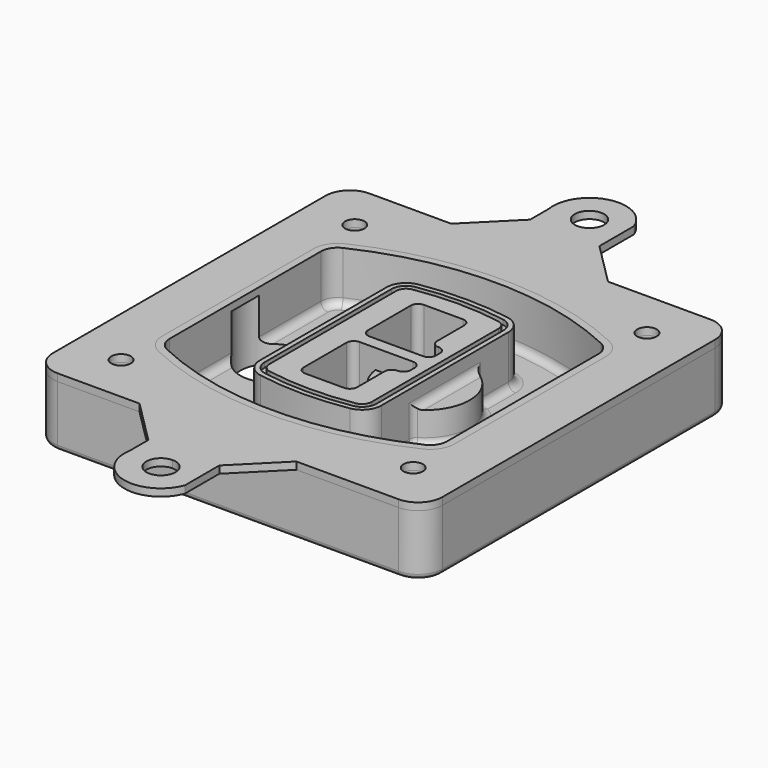
from build123d import *

# Parameters (mm, degrees)
F0_R      = 4
F1_DEPTH  = 25
F2_DEPTH  = 3
F3_DEPTH  = 18
F5_DEPTH  = 21
F6_DEPTH  = 2
F8_DEPTH  = 20
F9_DEPTH  = 16
F10_DEPTH = 25
F7_R      = 6
F7_R_2    = 4
F11_DEPTH = 6
F13_DEPTH = 9
F14_R     = 3
F15_R     = 2
F16_R     = 4
F17_DEPTH = 3


with BuildPart() as f1:
    # F0 (on Top) → F1 (new body)
    with BuildSketch(Plane.XY):
        with BuildLine():
            ThreePointArc((-80, -70), (-77.0710678119, -77.0710678119), (-70, -80))
            Line((-70, -80), (70, -80))
            ThreePointArc((70, -80), (77.0710678119, -77.0710678119), (80, -70))
            Line((80, -70), (80, 70))
            ThreePointArc((80, 70), (77.0710678119, 77.0710678119), (70, 80))
            Line((70, 80), (-70, 80))
            ThreePointArc((-70, 80), (-77.0710678119, 77.0710678119), (-80, 70))
            Line((-80, 70), (-80, -70))
        make_face()
        with Locations((-60, -60)):
            Circle(F0_R, mode=Mode.SUBTRACT)
        with Locations((60, -60)):
            Circle(F0_R, mode=Mode.SUBTRACT)
        with Locations((-60, 60)):
            Circle(F0_R, mode=Mode.SUBTRACT)
        with BuildLine():
            ThreePointArc((-64, 38.8308515907), (-61.8195654598, 46.3340424013), (-55.9574468085, 51.5000594398))
            ThreePointArc((-55.9574468085, 51.5000594398), (0, 64), (55.9574468085, 51.5000594398))
            ThreePointArc((55.9574468085, 51.5000594398), (61.8195654598, 46.3340424013), (64, 38.8308515907))
            Line((64, 38.8308515907), (64, -38.8308515907))
            ThreePointArc((64, -38.8308515907), (61.8195654598, -46.3340424013), (55.9574468085, -51.5000594398))
            ThreePointArc((55.9574468085, -51.5000594398), (0, -64), (-55.9574468085, -51.5000594398))
            ThreePointArc((-55.9574468085, -51.5000594398), (-61.8195654598, -46.3340424013), (-64, -38.8308515907))
            Line((-64, -38.8308515907), (-64, 38.8308515907))
        make_face(mode=Mode.SUBTRACT)
        with Locations((60, 60)):
            Circle(F0_R, mode=Mode.SUBTRACT)
        with BuildLine():
            ThreePointArc((55.9574468085, 51.5000594398), (0, 64), (-55.9574468085, 51.5000594398))
            ThreePointArc((-55.9574468085, 51.5000594398), (-61.8195654598, 46.3340424013), (-64, 38.8308515907))
            Line((-64, 38.8308515907), (-64, -38.8308515907))
            ThreePointArc((-64, -38.8308515907), (-61.8195654598, -46.3340424013), (-55.9574468085, -51.5000594398))
            ThreePointArc((-55.9574468085, -51.5000594398), (0, -64), (55.9574468085, -51.5000594398))
            ThreePointArc((55.9574468085, -51.5000594398), (61.8195654598, -46.3340424013), (64, -38.8308515907))
            Line((64, -38.8308515907), (64, 38.8308515907))
            ThreePointArc((64, 38.8308515907), (61.8195654598, 46.3340424013), (55.9574468085, 51.5000594398))
        make_face()
        with BuildLine():
            Line((-60, -38.8308515907), (-60, 38.8308515907))
            ThreePointArc((-60, 38.8308515907), (-58.442546757, 44.1902735983), (-54.2553191489, 47.8802857686))
            ThreePointArc((-54.2553191489, 47.8802857686), (0, 60), (54.2553191489, 47.8802857686))
            ThreePointArc((54.2553191489, 47.8802857686), (58.442546757, 44.1902735983), (60, 38.8308515907))
            Line((60, 38.8308515907), (60, -38.8308515907))
            ThreePointArc((60, -38.8308515907), (58.442546757, -44.1902735983), (54.2553191489, -47.8802857686))
            ThreePointArc((54.2553191489, -47.8802857686), (0, -60), (-54.2553191489, -47.8802857686))
            ThreePointArc((-54.2553191489, -47.8802857686), (-58.442546757, -44.1902735983), (-60, -38.8308515907))
        make_face(mode=Mode.SUBTRACT)
        with BuildLine():
            ThreePointArc((-54.2553191489, 47.8802857686), (-58.442546757, 44.1902735983), (-60, 38.8308515907))
            Line((-60, 38.8308515907), (-60, -38.8308515907))
            ThreePointArc((-60, -38.8308515907), (-58.442546757, -44.1902735983), (-54.2553191489, -47.8802857686))
            ThreePointArc((-54.2553191489, -47.8802857686), (0, -60), (54.2553191489, -47.8802857686))
            ThreePointArc((54.2553191489, -47.8802857686), (58.442546757, -44.1902735983), (60, -38.8308515907))
            Line((60, -38.8308515907), (60, 38.8308515907))
            ThreePointArc((60, 38.8308515907), (58.442546757, 44.1902735983), (54.2553191489, 47.8802857686))
            ThreePointArc((54.2553191489, 47.8802857686), (0, 60), (-54.2553191489, 47.8802857686))
        make_face()
        with BuildLine():
            ThreePointArc((52.9787234043, 45.1654555152), (55.9097827299, 42.582446996), (57, 38.8308515907))
            Line((57, 38.8308515907), (57, -38.8308515907))
            ThreePointArc((57, -38.8308515907), (55.9097827299, -42.582446996), (52.9787234043, -45.1654555152))
            ThreePointArc((52.9787234043, -45.1654555152), (0, -57), (-52.9787234043, -45.1654555152))
            ThreePointArc((-52.9787234043, -45.1654555152), (-55.9097827299, -42.582446996), (-57, -38.8308515907))
            Line((-57, -38.8308515907), (-57, 38.8308515907))
            ThreePointArc((-57, 38.8308515907), (-55.9097827299, 42.582446996), (-52.9787234043, 45.1654555152))
            ThreePointArc((-52.9787234043, 45.1654555152), (0, 57), (52.9787234043, 45.1654555152))
        make_face(mode=Mode.SUBTRACT)
        with BuildLine():
            Line((57, -38.8308515907), (57, 38.8308515907))
            ThreePointArc((57, 38.8308515907), (55.9097827299, 42.582446996), (52.9787234043, 45.1654555152))
            ThreePointArc((52.9787234043, 45.1654555152), (0, 57), (-52.9787234043, 45.1654555152))
            ThreePointArc((-52.9787234043, 45.1654555152), (-55.9097827299, 42.582446996), (-57, 38.8308515907))
            Line((-57, 38.8308515907), (-57, -38.8308515907))
            ThreePointArc((-57, -38.8308515907), (-55.9097827299, -42.582446996), (-52.9787234043, -45.1654555152))
            ThreePointArc((-52.9787234043, -45.1654555152), (0, -57), (52.9787234043, -45.1654555152))
            ThreePointArc((52.9787234043, -45.1654555152), (55.9097827299, -42.582446996), (57, -38.8308515907))
        make_face()
    extrude(amount=-F1_DEPTH)

    # F0 (on Top) → F2 (join)
    with BuildSketch(Plane.XY):
        with BuildLine():
            ThreePointArc((-54.2553191489, 47.8802857686), (-58.442546757, 44.1902735983), (-60, 38.8308515907))
            Line((-60, 38.8308515907), (-60, -38.8308515907))
            ThreePointArc((-60, -38.8308515907), (-58.442546757, -44.1902735983), (-54.2553191489, -47.8802857686))
            ThreePointArc((-54.2553191489, -47.8802857686), (0, -60), (54.2553191489, -47.8802857686))
            ThreePointArc((54.2553191489, -47.8802857686), (58.442546757, -44.1902735983), (60, -38.8308515907))
            Line((60, -38.8308515907), (60, 38.8308515907))
            ThreePointArc((60, 38.8308515907), (58.442546757, 44.1902735983), (54.2553191489, 47.8802857686))
            ThreePointArc((54.2553191489, 47.8802857686), (0, 60), (-54.2553191489, 47.8802857686))
        make_face()
        with BuildLine():
            ThreePointArc((52.9787234043, 45.1654555152), (55.9097827299, 42.582446996), (57, 38.8308515907))
            Line((57, 38.8308515907), (57, -38.8308515907))
            ThreePointArc((57, -38.8308515907), (55.9097827299, -42.582446996), (52.9787234043, -45.1654555152))
            ThreePointArc((52.9787234043, -45.1654555152), (0, -57), (-52.9787234043, -45.1654555152))
            ThreePointArc((-52.9787234043, -45.1654555152), (-55.9097827299, -42.582446996), (-57, -38.8308515907))
            Line((-57, -38.8308515907), (-57, 38.8308515907))
            ThreePointArc((-57, 38.8308515907), (-55.9097827299, 42.582446996), (-52.9787234043, 45.1654555152))
            ThreePointArc((-52.9787234043, 45.1654555152), (0, 57), (52.9787234043, 45.1654555152))
        make_face(mode=Mode.SUBTRACT)
    extrude(amount=F2_DEPTH)

    # F0 (on Top) → F3 (cut)
    with BuildSketch(Plane.XY):
        with BuildLine():
            Line((57, -38.8308515907), (57, 38.8308515907))
            ThreePointArc((57, 38.8308515907), (55.9097827299, 42.582446996), (52.9787234043, 45.1654555152))
            ThreePointArc((52.9787234043, 45.1654555152), (0, 57), (-52.9787234043, 45.1654555152))
            ThreePointArc((-52.9787234043, 45.1654555152), (-55.9097827299, 42.582446996), (-57, 38.8308515907))
            Line((-57, 38.8308515907), (-57, -38.8308515907))
            ThreePointArc((-57, -38.8308515907), (-55.9097827299, -42.582446996), (-52.9787234043, -45.1654555152))
            ThreePointArc((-52.9787234043, -45.1654555152), (0, -57), (52.9787234043, -45.1654555152))
            ThreePointArc((52.9787234043, -45.1654555152), (55.9097827299, -42.582446996), (57, -38.8308515907))
        make_face()
    extrude(amount=-F3_DEPTH, mode=Mode.SUBTRACT)

    # F4 (on face) → F5 (join, through all)
    with BuildSketch(Plane.XY.offset(3)):
        with BuildLine():
            ThreePointArc((-25, -32.5662280692), (-23.1122504785, -37.7276614059), (-18.3399014778, -40.4532214146))
            ThreePointArc((-18.3399014778, -40.4532214146), (0, -42), (18.3399014778, -40.4532214146))
            ThreePointArc((18.3399014778, -40.4532214146), (23.1122504785, -37.7276614059), (25, -32.5662280692))
            Line((25, -32.5662280692), (25, 32.5662280692))
            ThreePointArc((25, 32.5662280692), (23.1122504785, 37.7276614059), (18.3399014778, 40.4532214146))
            ThreePointArc((18.3399014778, 40.4532214146), (0, 42), (-18.3399014778, 40.4532214146))
            ThreePointArc((-18.3399014778, 40.4532214146), (-23.1122504785, 37.7276614059), (-25, 32.5662280692))
            Line((-25, 32.5662280692), (-25, -32.5662280692))
        make_face()
        with BuildLine():
            ThreePointArc((18.0049261084, 38.4814730782), (21.5841878588, 36.4373030717), (23, 32.5662280692))
            Line((23, 32.5662280692), (23, -32.5662280692))
            ThreePointArc((23, -32.5662280692), (21.5841878588, -36.4373030717), (18.0049261084, -38.4814730782))
            ThreePointArc((18.0049261084, -38.4814730782), (0, -40), (-18.0049261084, -38.4814730782))
            ThreePointArc((-18.0049261084, -38.4814730782), (-21.5841878588, -36.4373030717), (-23, -32.5662280692))
            Line((-23, -32.5662280692), (-23, 32.5662280692))
            ThreePointArc((-23, 32.5662280692), (-21.5841878588, 36.4373030717), (-18.0049261084, 38.4814730782))
            ThreePointArc((-18.0049261084, 38.4814730782), (0, 40), (18.0049261084, 38.4814730782))
        make_face(mode=Mode.SUBTRACT)
        with BuildLine():
            Line((23, -32.5662280692), (23, 32.5662280692))
            ThreePointArc((23, 32.5662280692), (21.5841878588, 36.4373030717), (18.0049261084, 38.4814730782))
            ThreePointArc((18.0049261084, 38.4814730782), (0, 40), (-18.0049261084, 38.4814730782))
            ThreePointArc((-18.0049261084, 38.4814730782), (-21.5841878588, 36.4373030717), (-23, 32.5662280692))
            Line((-23, 32.5662280692), (-23, -32.5662280692))
            ThreePointArc((-23, -32.5662280692), (-21.5841878588, -36.4373030717), (-18.0049261084, -38.4814730782))
            ThreePointArc((-18.0049261084, -38.4814730782), (0, -40), (18.0049261084, -38.4814730782))
            ThreePointArc((18.0049261084, -38.4814730782), (21.5841878588, -36.4373030717), (23, -32.5662280692))
        make_face()
        with BuildLine():
            ThreePointArc((17.6699507389, 36.5097247419), (20.0561252392, 35.1469447375), (21, 32.5662280692))
            Line((21, 32.5662280692), (21, -32.5662280692))
            ThreePointArc((21, -32.5662280692), (20.0561252392, -35.1469447375), (17.6699507389, -36.5097247419))
            ThreePointArc((17.6699507389, -36.5097247419), (0, -38), (-17.6699507389, -36.5097247419))
            ThreePointArc((-17.6699507389, -36.5097247419), (-20.0561252392, -35.1469447375), (-21, -32.5662280692))
            Line((-21, -32.5662280692), (-21, 32.5662280692))
            ThreePointArc((-21, 32.5662280692), (-20.0561252392, 35.1469447375), (-17.6699507389, 36.5097247419))
            ThreePointArc((-17.6699507389, 36.5097247419), (0, 38), (17.6699507389, 36.5097247419))
        make_face(mode=Mode.SUBTRACT)
        with BuildLine():
            Line((21, -32.5662280692), (21, 32.5662280692))
            ThreePointArc((21, 32.5662280692), (20.0561252392, 35.1469447375), (17.6699507389, 36.5097247419))
            ThreePointArc((17.6699507389, 36.5097247419), (0, 38), (-17.6699507389, 36.5097247419))
            ThreePointArc((-17.6699507389, 36.5097247419), (-20.0561252392, 35.1469447375), (-21, 32.5662280692))
            Line((-21, 32.5662280692), (-21, -32.5662280692))
            ThreePointArc((-21, -32.5662280692), (-20.0561252392, -35.1469447375), (-17.6699507389, -36.5097247419))
            ThreePointArc((-17.6699507389, -36.5097247419), (0, -38), (17.6699507389, -36.5097247419))
            ThreePointArc((17.6699507389, -36.5097247419), (20.0561252392, -35.1469447375), (21, -32.5662280692))
        make_face()
        with BuildLine():
            Line((-8, -2.5), (14, -2.5))
            ThreePointArc((14, -2.5), (16.1213203436, -3.3786796564), (17, -5.5))
            Line((17, -5.5), (17, -7.5))
            ThreePointArc((17, -7.5), (16.1213203436, -9.6213203436), (14, -10.5))
            ThreePointArc((14, -10.5), (11.8786796564, -11.3786796564), (11, -13.5))
            Line((11, -13.5), (11, -27.5))
            ThreePointArc((11, -27.5), (10.1213203436, -29.6213203436), (8, -30.5))
            Line((8, -30.5), (-8, -30.5))
            ThreePointArc((-8, -30.5), (-10.1213203436, -29.6213203436), (-11, -27.5))
            Line((-11, -27.5), (-11, -5.5))
            ThreePointArc((-11, -5.5), (-10.1213203436, -3.3786796564), (-8, -2.5))
        make_face(mode=Mode.SUBTRACT)
        with BuildLine():
            ThreePointArc((-8, 2.5), (-10.1213203436, 3.3786796564), (-11, 5.5))
            Line((-11, 5.5), (-11, 27.5))
            ThreePointArc((-11, 27.5), (-10.1213203436, 29.6213203436), (-8, 30.5))
            Line((-8, 30.5), (8, 30.5))
            ThreePointArc((8, 30.5), (10.1213203436, 29.6213203436), (11, 27.5))
            Line((11, 27.5), (11, 13.5))
            ThreePointArc((11, 13.5), (11.8786796564, 11.3786796564), (14, 10.5))
            ThreePointArc((14, 10.5), (16.1213203436, 9.6213203436), (17, 7.5))
            Line((17, 7.5), (17, 5.5))
            ThreePointArc((17, 5.5), (16.1213203436, 3.3786796564), (14, 2.5))
            Line((14, 2.5), (-8, 2.5))
        make_face(mode=Mode.SUBTRACT)
    extrude(amount=-F5_DEPTH)

    # F4 (on face) → F6 (cut)
    with BuildSketch(Plane.XY.offset(3)):
        with BuildLine():
            Line((23, -32.5662280692), (23, 32.5662280692))
            ThreePointArc((23, 32.5662280692), (21.5841878588, 36.4373030717), (18.0049261084, 38.4814730782))
            ThreePointArc((18.0049261084, 38.4814730782), (0, 40), (-18.0049261084, 38.4814730782))
            ThreePointArc((-18.0049261084, 38.4814730782), (-21.5841878588, 36.4373030717), (-23, 32.5662280692))
            Line((-23, 32.5662280692), (-23, -32.5662280692))
            ThreePointArc((-23, -32.5662280692), (-21.5841878588, -36.4373030717), (-18.0049261084, -38.4814730782))
            ThreePointArc((-18.0049261084, -38.4814730782), (0, -40), (18.0049261084, -38.4814730782))
            ThreePointArc((18.0049261084, -38.4814730782), (21.5841878588, -36.4373030717), (23, -32.5662280692))
        make_face()
        with BuildLine():
            ThreePointArc((17.6699507389, 36.5097247419), (20.0561252392, 35.1469447375), (21, 32.5662280692))
            Line((21, 32.5662280692), (21, -32.5662280692))
            ThreePointArc((21, -32.5662280692), (20.0561252392, -35.1469447375), (17.6699507389, -36.5097247419))
            ThreePointArc((17.6699507389, -36.5097247419), (0, -38), (-17.6699507389, -36.5097247419))
            ThreePointArc((-17.6699507389, -36.5097247419), (-20.0561252392, -35.1469447375), (-21, -32.5662280692))
            Line((-21, -32.5662280692), (-21, 32.5662280692))
            ThreePointArc((-21, 32.5662280692), (-20.0561252392, 35.1469447375), (-17.6699507389, 36.5097247419))
            ThreePointArc((-17.6699507389, 36.5097247419), (0, 38), (17.6699507389, 36.5097247419))
        make_face(mode=Mode.SUBTRACT)
    extrude(amount=-F6_DEPTH, mode=Mode.SUBTRACT)

    # F7 (on face) → F8 (join)
    with BuildSketch(Plane(origin=(0, 0, -25), x_dir=(1, 0, 0), z_dir=(0, 0, -1))):
        with BuildLine():
            ThreePointArc((3.28842436, 0), (16.7567035675, 13.4682792075), (30.224982775, 0))
            Line((30.224982775, 0), (35.224982775, 0))
            ThreePointArc((35.224982775, 0), (16.7567035675, 18.4682792075), (-1.71157564, 0))
            Line((-1.71157564, 0), (3.28842436, 0))
        make_face()
        with BuildLine():
            Line((3.28842436, 0), (30.224982775, 0))
            ThreePointArc((30.224982775, 0), (16.7567035675, 13.4682792075), (3.28842436, 0))
        make_face()
        with BuildLine():
            ThreePointArc((3.28842436, 0), (16.7567035675, -13.4682792075), (30.224982775, 0))
            Line((30.224982775, 0), (3.28842436, 0))
        make_face()
        with BuildLine():
            Line((35.224982775, 0), (30.224982775, 0))
            ThreePointArc((30.224982775, 0), (16.7567035675, -13.4682792075), (3.28842436, 0))
            Line((3.28842436, 0), (-1.71157564, 0))
            ThreePointArc((-1.71157564, 0), (16.7567035675, -18.4682792075), (35.224982775, 0))
        make_face()
    extrude(amount=-F8_DEPTH)

    # F7 (on face) → F9 (cut)
    with BuildSketch(Plane(origin=(0, 0, -25), x_dir=(1, 0, 0), z_dir=(0, 0, -1))):
        with BuildLine():
            Line((3.28842436, 0), (30.224982775, 0))
            ThreePointArc((30.224982775, 0), (16.7567035675, 13.4682792075), (3.28842436, 0))
        make_face()
        with BuildLine():
            ThreePointArc((3.28842436, 0), (16.7567035675, -13.4682792075), (30.224982775, 0))
            Line((30.224982775, 0), (3.28842436, 0))
        make_face()
    extrude(amount=-F9_DEPTH, mode=Mode.SUBTRACT)

    # F7 (on face) → F10 (cut)
    with BuildSketch(Plane(origin=(0, 0, -25), x_dir=(1, 0, 0), z_dir=(0, 0, -1))):
        with BuildLine():
            Line((-59.0318229325, 0), (-32.0952645175, 0))
            ThreePointArc((-32.0952645175, 0), (-45.563543725, 13.4682792075), (-59.0318229325, 0))
        make_face()
        with BuildLine():
            ThreePointArc((-59.0318229325, 0), (-45.563543725, -13.4682792075), (-32.0952645175, 0))
            Line((-32.0952645175, 0), (-59.0318229325, 0))
        make_face()
    extrude(amount=-F10_DEPTH, mode=Mode.SUBTRACT)

    # F7 (on face) → F11 (cut)
    with BuildSketch(Plane(origin=(0, 0, -25), x_dir=(1, 0, 0), z_dir=(0, 0, -1))):
        with Locations((60, -60)):
            Circle(F7_R)
        with Locations((60, -60)):
            Circle(F7_R_2, mode=Mode.SUBTRACT)
        with Locations((60, -60)):
            Circle(F7_R)
        with Locations((60, -60)):
            Circle(F7_R_2, mode=Mode.SUBTRACT)
        with Locations((-60, -60)):
            Circle(F7_R)
        with Locations((-60, -60)):
            Circle(F7_R_2, mode=Mode.SUBTRACT)
        with Locations((-60, -60)):
            Circle(F7_R)
        with Locations((-60, -60)):
            Circle(F7_R_2, mode=Mode.SUBTRACT)
        with Locations((-60, 60)):
            Circle(F7_R)
        with Locations((-60, 60)):
            Circle(F7_R_2, mode=Mode.SUBTRACT)
        with Locations((-60, 60)):
            Circle(F7_R)
        with Locations((-60, 60)):
            Circle(F7_R_2, mode=Mode.SUBTRACT)
        with Locations((60, 60)):
            Circle(F7_R)
        with Locations((60, 60)):
            Circle(F7_R_2, mode=Mode.SUBTRACT)
        with Locations((60, 60)):
            Circle(F7_R)
        with Locations((60, 60)):
            Circle(F7_R_2, mode=Mode.SUBTRACT)
    extrude(amount=-F11_DEPTH, mode=Mode.SUBTRACT)

    # F12 (on face) → F13 (cut, through all)
    with BuildSketch(Plane(origin=(0, 0, -9), x_dir=(1, 0, 0), z_dir=(0, 0, -1))):
        with BuildLine():
            Line((11, 13.5), (11, 17.5481537753))
            ThreePointArc((11, 17.5481537753), (2.5696536419, 11.8239143813), (-1.5415842455, 2.5))
            Line((-1.5415842455, 2.5), (3.5224848595, 2.5))
            ThreePointArc((3.5224848595, 2.5), (6.1857188154, 8.3455872281), (11.2536447004, 12.2927168648))
            ThreePointArc((11.2536447004, 12.2927168648), (11.0640958889, 12.8831798879), (11, 13.5))
        make_face()
        with BuildLine():
            ThreePointArc((11.2536447004, -12.2927168648), (6.1857188154, -8.3455872281), (3.5224848595, -2.5))
            Line((3.5224848595, -2.5), (-1.5415842455, -2.5))
            ThreePointArc((-1.5415842455, -2.5), (2.5696536419, -11.8239143813), (11, -17.5481537753))
            Line((11, -17.5481537753), (11, -13.5))
            ThreePointArc((11, -13.5), (11.0640958889, -12.8831798879), (11.2536447004, -12.2927168648))
        make_face()
        with BuildLine():
            ThreePointArc((11.2536447004, 12.2927168648), (6.1857188154, 8.3455872281), (3.5224848595, 2.5))
            Line((3.5224848595, 2.5), (14, 2.5))
            ThreePointArc((14, 2.5), (16.1213203436, 3.3786796564), (17, 5.5))
            Line((17, 5.5), (17, 7.5))
            ThreePointArc((17, 7.5), (16.1213203436, 9.6213203436), (14, 10.5))
            ThreePointArc((14, 10.5), (12.3601599782, 10.9878446101), (11.2536447004, 12.2927168648))
        make_face()
        with BuildLine():
            Line((14, -2.5), (3.5224848595, -2.5))
            ThreePointArc((3.5224848595, -2.5), (6.1857188154, -8.3455872281), (11.2536447004, -12.2927168648))
            ThreePointArc((11.2536447004, -12.2927168648), (12.3601599782, -10.9878446101), (14, -10.5))
            ThreePointArc((14, -10.5), (16.1213203436, -9.6213203436), (17, -7.5))
            Line((17, -7.5), (17, -5.5))
            ThreePointArc((17, -5.5), (16.1213203436, -3.3786796564), (14, -2.5))
        make_face()
    extrude(amount=F13_DEPTH, mode=Mode.SUBTRACT)

    # F14
    f14_edges = [f1.edges().sort_by_distance(p)[0] for p in [
        (-57, -22.97218, -18),
        (-57, 22.97218, -18),
        (25, 0, -5),
        (25, 16.526506, -11.5),
        (25, -16.526506, -11.5),
        (25, -24.546367, -18),
        (35.224983, 0, -18),
    ]]
    fillet(f14_edges, radius=F14_R)

    # F15
    f15_edges = [f1.edges().sort_by_distance(p)[0] for p in [
        (0, -80, -25),
    ]]
    fillet(f15_edges, radius=F15_R)


with BuildPart() as f17:
    # F16 (on face) → F17 (new body, through all)
    with BuildSketch(Plane.XY):
        with BuildLine():
            Line((-18.4024378359, 98), (-36.4024378359, 80))
            Line((-36.4024378359, 80), (-4.2503294535, 80))
            Line((-4.2503294535, 80), (0, 80))
            Line((0, 80), (27.9961103753, 80))
            Line((27.9961103753, 80), (10.4284195553, 97.56769082))
            Line((10.4284195553, 97.56769082), (10.4284195553, 115.2990184564))
            ThreePointArc((10.4284195553, 115.2990184564), (-7.499388154, 124.4854814349), (-18.4024378359, 107.5467418432))
            Line((-18.4024378359, 107.5467418432), (-18.4024378359, 98))
        make_face()
        with BuildLine():
            ThreePointArc((2.3955865057, 110), (0.5923162111, 105.7119398582), (-3.7335667542, 104.0013902081))
            ThreePointArc((-3.7335667542, 104.0013902081), (-7.8011431997, 114.2880601418), (2.3955865057, 110))
        make_face(mode=Mode.SUBTRACT)
        with BuildLine():
            Line((-4.2503294535, -80), (-36.4024378359, -80))
            Line((-36.4024378359, -80), (-18.4024378359, -98))
            Line((-18.4024378359, -98), (-18.4024378359, -107.5467418432))
            ThreePointArc((-18.4024378359, -107.5467418432), (-7.499388154, -124.4854814349), (10.4284195553, -115.2990184564))
            Line((10.4284195553, -115.2990184564), (10.4284195553, -97.56769082))
            Line((10.4284195553, -97.56769082), (27.9961103753, -80))
            Line((27.9961103753, -80), (-4.2503294535, -80))
        make_face()
        with BuildLine():
            ThreePointArc((2.3955865057, -110), (-7.8011431997, -114.2880601418), (-3.7335667542, -104.0013902081))
            ThreePointArc((-3.7335667542, -104.0013902081), (0.5923162111, -105.7119398582), (2.3955865057, -110))
        make_face(mode=Mode.SUBTRACT)
        with BuildLine():
            Line((-36.4024378359, 80), (-70, 80))
            ThreePointArc((-70, 80), (-77.0710678119, 77.0710678119), (-80, 70))
            Line((-80, 70), (-80, -70))
            ThreePointArc((-80, -70), (-77.0710678119, -77.0710678119), (-70, -80))
            Line((-70, -80), (-36.4024378359, -80))
            Line((-36.4024378359, -80), (-4.2503294535, -80))
            Line((-4.2503294535, -80), (27.9961103753, -80))
            Line((27.9961103753, -80), (70, -80))
            ThreePointArc((70, -80), (77.0710678119, -77.0710678119), (80, -70))
            Line((80, -70), (80, 70))
            ThreePointArc((80, 70), (77.0710678119, 77.0710678119), (70, 80))
            Line((70, 80), (27.9961103753, 80))
            Line((27.9961103753, 80), (0, 80))
            Line((0, 80), (-4.2503294535, 80))
            Line((-4.2503294535, 80), (-36.4024378359, 80))
        make_face()
        with Locations((-60, -60)):
            Circle(F16_R, mode=Mode.SUBTRACT)
        with Locations((60, -60)):
            Circle(F16_R, mode=Mode.SUBTRACT)
        with Locations((-60, 60)):
            Circle(F16_R, mode=Mode.SUBTRACT)
        with BuildLine():
            ThreePointArc((-60, 38.8308515907), (-58.442546757, 44.1902735983), (-54.2553191489, 47.8802857686))
            ThreePointArc((-54.2553191489, 47.8802857686), (0, 60), (54.2553191489, 47.8802857686))
            ThreePointArc((54.2553191489, 47.8802857686), (58.442546757, 44.1902735983), (60, 38.8308515907))
            Line((60, 38.8308515907), (60, -38.8308515907))
            ThreePointArc((60, -38.8308515907), (58.442546757, -44.1902735983), (54.2553191489, -47.8802857686))
            ThreePointArc((54.2553191489, -47.8802857686), (0, -60), (-54.2553191489, -47.8802857686))
            ThreePointArc((-54.2553191489, -47.8802857686), (-58.442546757, -44.1902735983), (-60, -38.8308515907))
            Line((-60, -38.8308515907), (-60, 38.8308515907))
        make_face(mode=Mode.SUBTRACT)
        with Locations((60, 60)):
            Circle(F16_R, mode=Mode.SUBTRACT)
    extrude(amount=F17_DEPTH)


solid = Compound([f1.part, f17.part])
